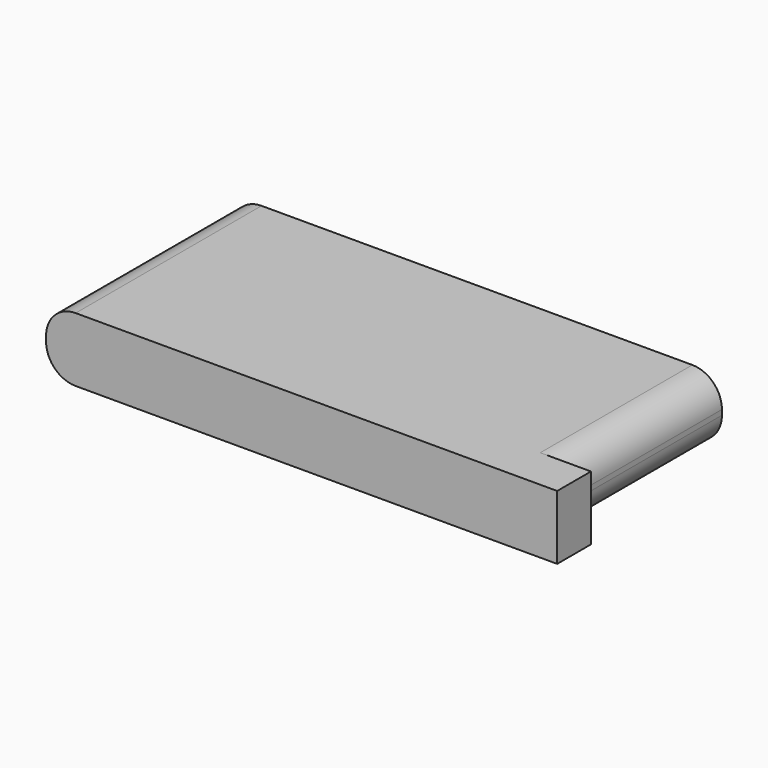
from build123d import *

# Parameters (mm, degrees)
F0_W          = 116
F0_H          = 55
F1_DEPTH      = 15.2
F2_R          = 7
F3_W          = 10
F3_H          = 15.2
F4_DEPTH      = 5
F4_DEPTH_BACK = 10


with BuildPart() as f1:
    # F0 (on Top) → F1 (new body)
    with BuildSketch(Plane.XY):
        Rectangle(F0_W, F0_H)
    extrude(amount=F1_DEPTH)

    # F2
    f2_edges = [f1.edges().sort_by_distance(p)[0] for p in [
        (58, 0, 15.2),
        (58, 0, 0),
        (-58, 0, 15.2),
        (-58, 0, 0),
    ]]
    fillet(f2_edges, radius=F2_R)

    # F3 (on face) → F4 (join, two sides)
    with BuildSketch(Plane.YZ.offset(58)) as f4_sk:
        with Locations((-22.5, 7.6)):
            Rectangle(F3_W, F3_H)
    extrude(amount=F4_DEPTH)
    extrude(f4_sk.sketch, amount=-F4_DEPTH_BACK)


solid = f1.part
